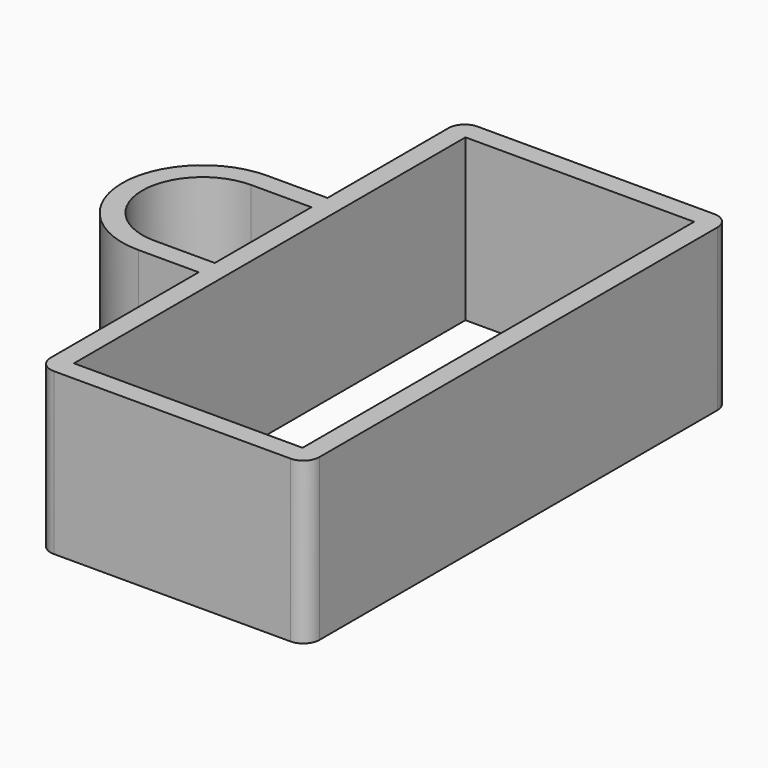
from build123d import *

# Parameters (mm, degrees)
F0_W     = 18.034
F0_H     = 38.608
F1_DEPTH = 12.7
F2_R     = 1.27


with BuildPart() as f1:
    # F0 (on Top) → F1 (new body)
    with BuildSketch(Plane.XY):
        Polygon((-1.5875, 14.2875), (-1.5875, -1.5875), (19.6215, -1.5875), (19.6215, 40.1955), (-1.5875, 40.1955), (-1.5875, 26.9875), (-1.5875, 25.4), (-1.5875, 15.875), align=None)
        with Locations((9.017, 19.304)):
            Rectangle(F0_W, F0_H, mode=Mode.SUBTRACT)
        with BuildLine():
            Line((-6.35, 14.2875), (-1.5875, 14.2875))
            Line((-1.5875, 14.2875), (-1.5875, 15.875))
            Line((-1.5875, 15.875), (-6.35, 15.875))
            ThreePointArc((-6.35, 15.875), (-11.1125, 20.6375), (-6.35, 25.4))
            Line((-6.35, 25.4), (-1.5875, 25.4))
            Line((-1.5875, 25.4), (-1.5875, 26.9875))
            Line((-1.5875, 26.9875), (-6.35, 26.9875))
            ThreePointArc((-6.35, 26.9875), (-12.7, 20.6375), (-6.35, 14.2875))
        make_face()
    extrude(amount=F1_DEPTH)

    # F2
    f2_edges = [f1.edges().sort_by_distance(p)[0] for p in [
        (19.6215, -1.5875, 6.35),
        (-1.5875, -1.5875, 6.35),
        (-1.5875, 40.1955, 6.35),
        (19.6215, 40.1955, 6.35),
    ]]
    fillet(f2_edges, radius=F2_R)


solid = f1.part
